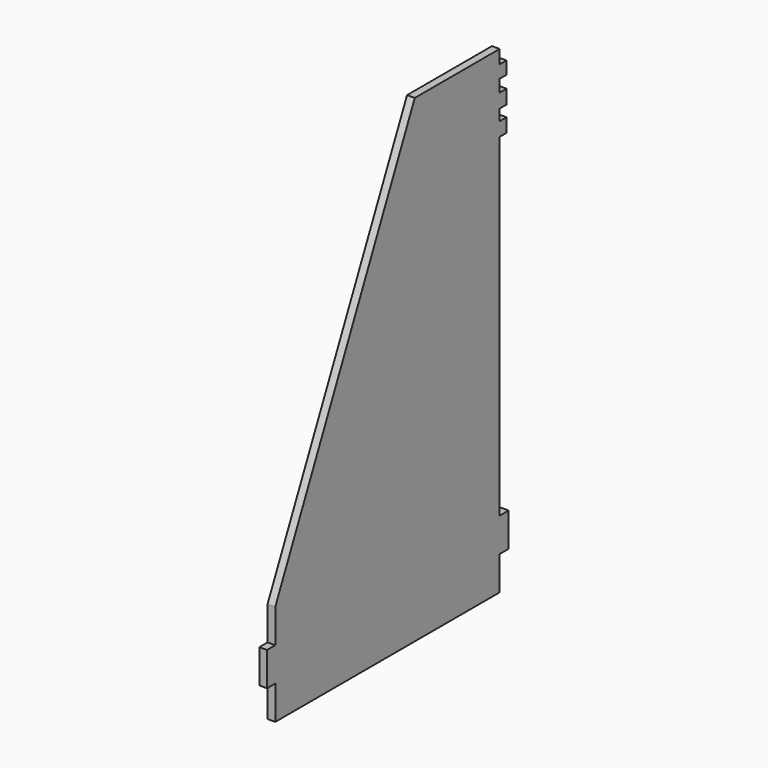
from build123d import *

# Parameters (mm, degrees)
F1_DEPTH = 1.905


with BuildPart() as f1:
    # F0 (on Right) → F1 (new body)
    with BuildSketch(Plane.YZ):
        Polygon((10.509029, 56.695819), (10.509029, 60.061496), (-15.779425, 60.061496), (-58.964454, -33.344321), (-58.964454, -41.709021), (-61.520327, -41.709021), (-61.520327, -50.073724), (-58.964454, -50.073724), (-58.964454, -58.438424), (10.509029, -58.438424), (10.509029, -50.073724), (13.297265, -50.073724), (13.297265, -41.709021), (10.509029, -41.709021), (10.509029, 40.895827), (12.61956, 40.895827), (12.61956, 44.30379), (10.509029, 44.30379), (10.509029, 47.049738), (12.61956, 47.049738), (12.61956, 50.535034), (10.509029, 50.535034), (10.509029, 53.555619), (12.61956, 53.555619), (12.61956, 56.695819), align=None)
    extrude(amount=F1_DEPTH)


solid = f1.part
